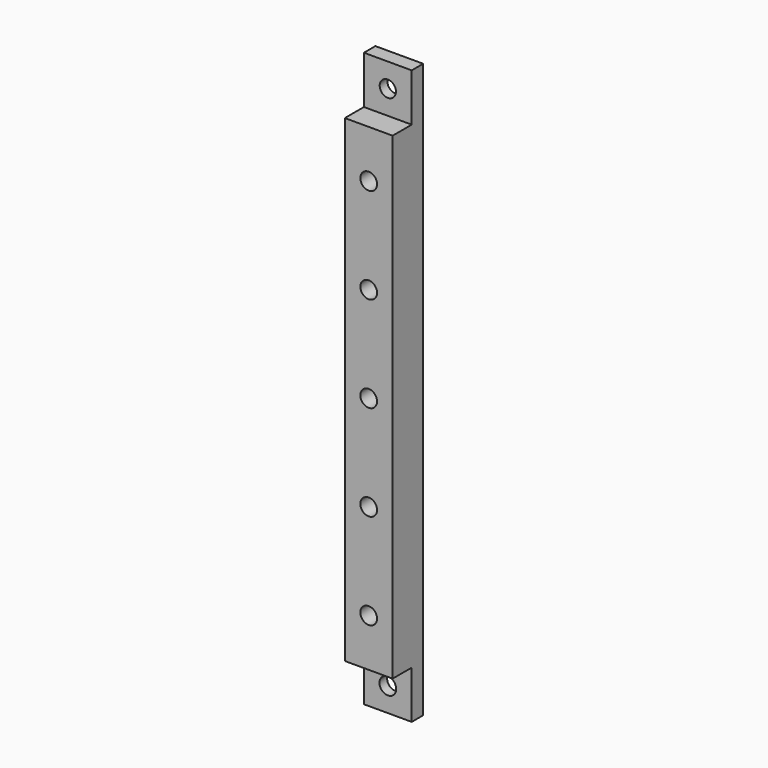
from build123d import *

# Parameters (mm, degrees)
SKETCH016_W     = 10
SKETCH016_H     = 8
PAD005_DEPTH    = 100
SKETCH015_W     = 10
SKETCH015_H     = 3
PAD006_DEPTH    = 10
SKETCH017_R     = 1.7
POCKET006_DEPTH = 5
SKETCH013_R     = 3.5
POCKET008_DEPTH = 1
SKETCH012_W     = 10
SKETCH012_H     = 3
PAD007_DEPTH    = 10
SKETCH011_R     = 1.75
POCKET007_DEPTH = 5
SKETCH014_R     = 3.5
POCKET010_DEPTH = 1
SKETCH018_R     = 1.75
POCKET009_DEPTH = 6


with BuildPart() as part:
    # Sketch016 → Pad005 (new body)
    with BuildSketch(Plane.XY):
        with Locations((-15, 49)):
            Rectangle(SKETCH016_W, SKETCH016_H)
    extrude(amount=PAD005_DEPTH)

    # Sketch015 (on Face6 of Pad005) → Pad006 (join)
    with BuildSketch(Plane.XY.offset(100)):
        with Locations((-15, 51.5)):
            Rectangle(SKETCH015_W, SKETCH015_H)
    extrude(amount=PAD006_DEPTH)

    # Sketch017 (on Face5 of Pad006) → Pocket006 (cut)
    with BuildSketch(Plane(origin=(0, 53, 0), x_dir=(-1, 0, 0), z_dir=(0, 1, 0))):
        with Locations((15, 105)):
            Circle(SKETCH017_R)
    extrude(amount=-POCKET006_DEPTH, mode=Mode.SUBTRACT)

    # Sketch013 (on Face5 of Pocket006) → Pocket008 (cut)
    with BuildSketch(Plane(origin=(0, 53, 0), x_dir=(-1, 0, 0), z_dir=(0, 1, 0))):
        with Locations((15, 105)):
            Circle(SKETCH013_R)
    extrude(amount=-POCKET008_DEPTH, mode=Mode.SUBTRACT)

    # Sketch012 (on Face4 of Pocket008) → Pad007 (join)
    with BuildSketch(Plane(origin=(0, 0, 0), x_dir=(1, 0, 0), z_dir=(0, 0, -1))):
        with Locations((-15, -51.5)):
            Rectangle(SKETCH012_W, SKETCH012_H)
    extrude(amount=PAD007_DEPTH)

    # Sketch011 (on Face4 of Pad007) → Pocket007 (cut)
    with BuildSketch(Plane(origin=(0, 53, 0), x_dir=(-1, 0, 0), z_dir=(0, 1, 0))):
        with Locations((15, -5)):
            Circle(SKETCH011_R)
    extrude(amount=-POCKET007_DEPTH, mode=Mode.SUBTRACT)

    # Sketch014 (on Face4 of Pocket007) → Pocket010 (cut)
    with BuildSketch(Plane(origin=(0, 53, 0), x_dir=(-1, 0, 0), z_dir=(0, 1, 0))):
        with Locations((15, -5)):
            Circle(SKETCH014_R)
    extrude(amount=-POCKET010_DEPTH, mode=Mode.SUBTRACT)

    # Sketch018 (on Face6 of Pocket010) → Pocket009 (cut)
    with BuildSketch(Plane.XZ.offset(-45)):
        with Locations((-15, 90)):
            Circle(SKETCH018_R)
        with Locations((-15, 70)):
            Circle(SKETCH018_R)
        with Locations((-15, 50)):
            Circle(SKETCH018_R)
        with Locations((-15, 30)):
            Circle(SKETCH018_R)
        with Locations((-15, 10)):
            Circle(SKETCH018_R)
    extrude(amount=-POCKET009_DEPTH, mode=Mode.SUBTRACT)


with BuildPart() as part_1:
    # Body003 placement: moved
    add(part.part.moved(Location((30, 0, 0))))


solid = part_1.part
